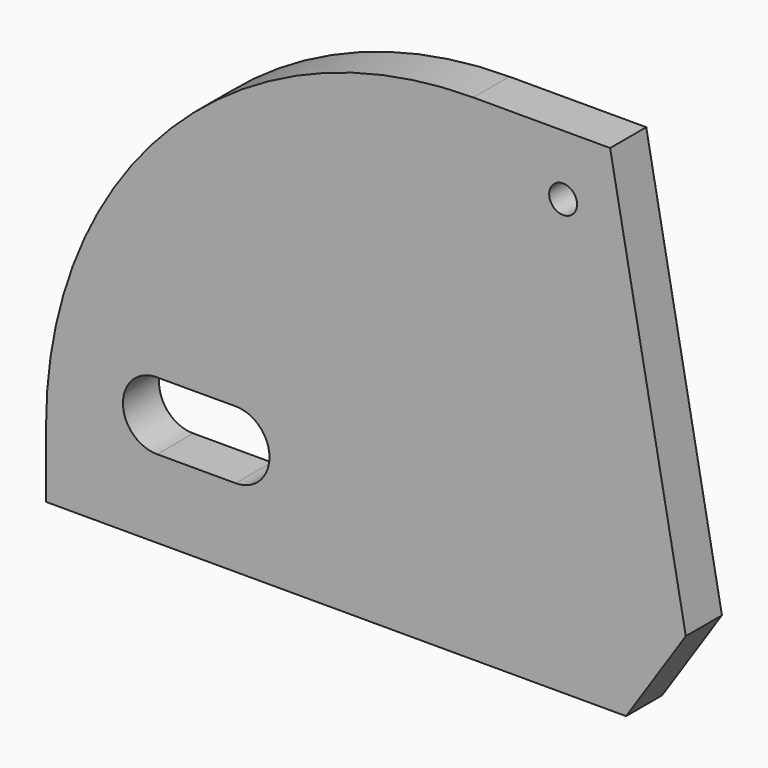
from build123d import *

# Parameters (mm, degrees)
F0_R     = 1.961825
F1_DEPTH = 6.35


with BuildPart() as f1:
    # F0 (on Front) → F1 (new body)
    with BuildSketch(Plane.XZ):
        with BuildLine():
            Line((-53.133917, -62.218764), (-63.778876, -5.232224))
            Line((-63.778876, -5.232224), (-83.02549, -5.232224))
            ThreePointArc((-83.02549, -5.232224), (-125.525241, -22.836197), (-143.129215, -65.335949))
            Line((-143.129215, -65.335949), (-143.129215, -74.860949))
            Line((-143.129215, -74.860949), (-61.535225, -74.860949))
            Line((-61.535225, -74.860949), (-53.133917, -62.218764))
        make_face()
        with BuildLine():
            ThreePointArc((-127.497171, -63.875698), (-132.31138, -58.972057), (-127.21452, -54.362902))
            Line((-127.21452, -54.362902), (-116.470327, -54.351005))
            ThreePointArc((-116.470327, -54.351005), (-111.702554, -59.11093), (-116.465185, -63.876002))
            Line((-116.465185, -63.876002), (-127.497171, -63.875698))
        make_face(mode=Mode.SUBTRACT)
        with Locations((-70.395224, -13.724945)):
            Circle(F0_R, mode=Mode.SUBTRACT)
    extrude(amount=F1_DEPTH)


solid = f1.part
